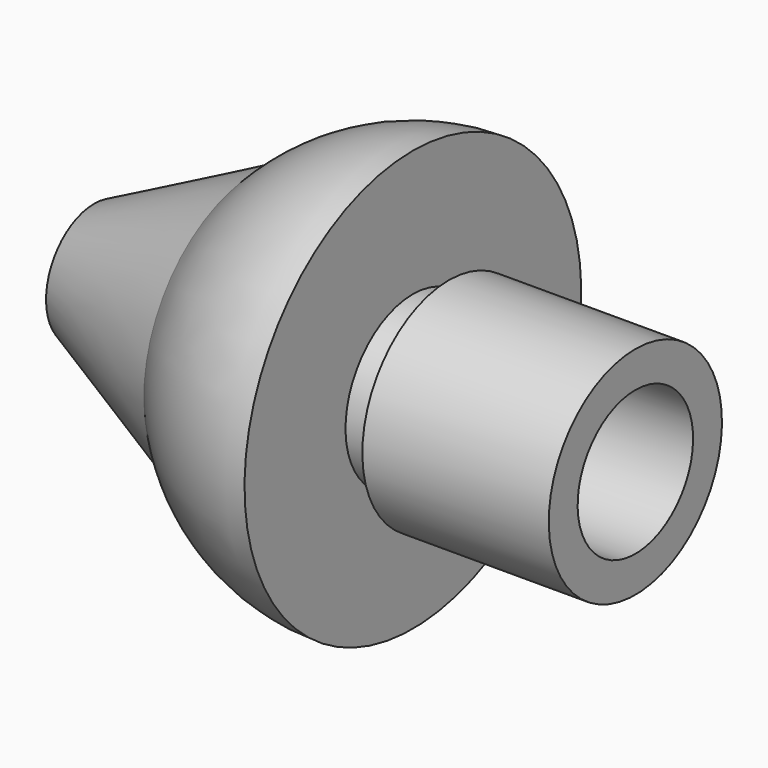
from build123d import *


with BuildPart() as f1:
    # F0 (on Front) → F1 (revolve)
    with BuildSketch(Plane.XZ):
        with BuildLine():
            Line((-43.2, 10), (-43.2, 6))
            Line((-43.2, 6), (21.8, 6))
            Line((21.8, 6), (21.8, 12))
            Line((21.8, 12), (46.8, 12))
            Line((46.8, 12), (46.8, 18))
            Line((46.8, 18), (15.8, 18))
            Line((15.8, 18), (15.8, 14))
            Line((15.8, 14), (9.8, 14))
            Line((9.8, 14), (9.8, 35))
            ThreePointArc((9.8, 35), (-4.42891, 31.97715), (-16.2, 23.430749))
            Line((-16.2, 23.430749), (-43.2, 10))
        make_face()
    revolve(axis=Axis((-0.3, 0, 0), (1, 0, 0)))


solid = f1.part
